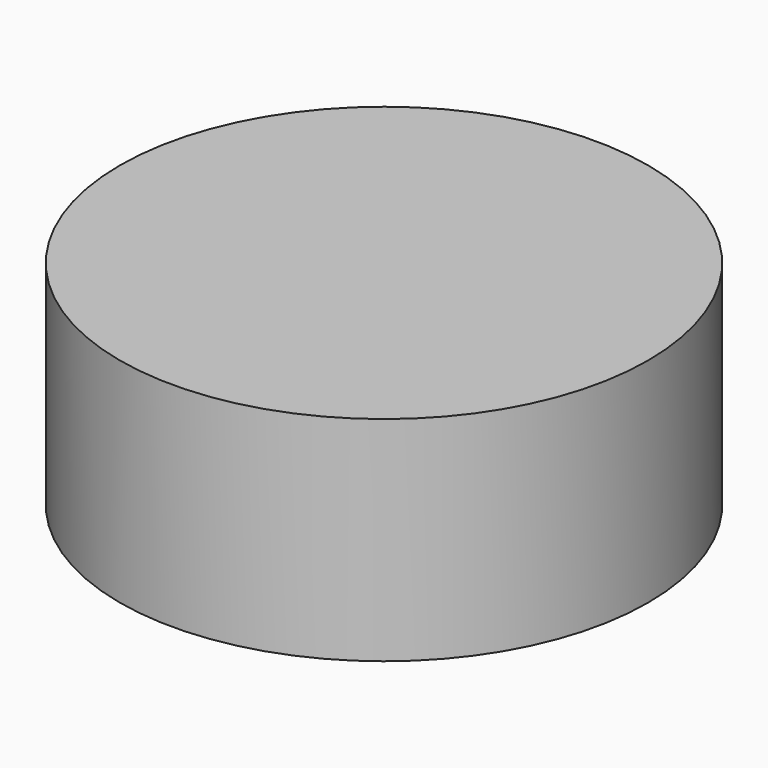
from build123d import *

# Parameters (mm, degrees)
CYLINDER_R     = 18.5801
CYLINDER_DEPTH = 15


with BuildPart() as part:
    # Cylinder → Cylinder (new body)
    with BuildSketch(Plane.XY.offset(-2.5)):
        Circle(CYLINDER_R)
    extrude(amount=CYLINDER_DEPTH)


solid = part.part
